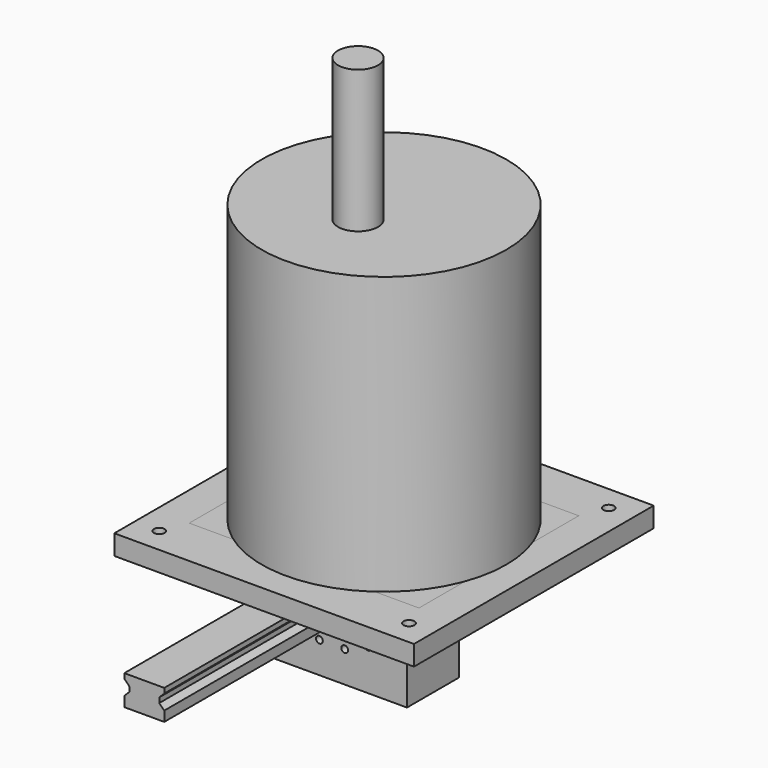
from build123d import *

# Parameters (mm, degrees)
F1_DEPTH  = 65
F3_DEPTH  = 65.001
F4_D      = 6.8
F4_DEPTH  = 13.75
F4_TIP    = 2.0429261047
F5_R      = 20
F6_DEPTH  = 10
F7_DEPTH  = 60.1742431504
F8_R      = 20
F9_DEPTH  = 325
F11_D     = 6.8
F11_DEPTH = 13.75
F11_TIP   = 2.0429261047
F12_R     = 20
F13_DEPTH = 54.2055053823
F14_DEPTH = 10
F15_R     = 20
F16_DEPTH = 54.2055053823
F17_DEPTH = 10
F18_R     = 17.5
F19_DEPTH = 40
F21_DEPTH = 40
F22_R     = 15
F23_DEPTH = 5
F24_R     = 2
F25_DEPTH = 60
F26_W     = 300
F26_H     = 300
F27_DEPTH = 20
F29_D     = 10.8
F30_W     = 300
F30_H     = 300
F31_DEPTH = 20
F33_D     = 10.8
F35_DEPTH = 300
F36_DEPTH = 75
F37_R     = 6
F38_DEPTH = 100
F39_W     = 230
F39_H     = 200
F40_DEPTH = 20
F41_R     = 122.5
F42_DEPTH = 297.5


with BuildPart() as f1:
    # F0 (on Front) → F1 (new body)
    with BuildSketch(Plane.XZ):
        Polygon((-75, 75), (-75, -95), (75, -95), (75, 75), (35, 105), (-35, 105), align=None)
    extrude(amount=F1_DEPTH)

    # F2 (on face) → F3 (cut, through all)
    with BuildSketch(Plane(origin=(0, 0, 0), x_dir=(-1, 0, 0), z_dir=(0, 1, 0))):
        with BuildLine():
            Line((-35.7071421427, -35), (35.7071421427, -35))
            ThreePointArc((35.7071421427, -35), (0, 50), (-35.7071421427, -35))
        make_face()
    extrude(amount=-F3_DEPTH, mode=Mode.SUBTRACT)

    # F4
    with Locations(Plane(origin=(0, 0, 0), x_dir=(-1, 0, 0), z_dir=(0, 1, 0))):
        with Locations((12.680870931, 63.7510432262), (36.1120651463, 54.0455247997), (54.0455247997, 36.1120651463), (63.7510432262, 12.680870931), (63.7510432262, -12.680870931), (54.0455247997, -36.1120651463), (36.1120651463, -54.0455247997), (12.680870931, -63.7510432262), (-12.680870931, -63.7510432262), (-36.1120651463, -54.0455247997), (-54.0455247997, -36.1120651463), (-63.7510432262, -12.680870931), (-63.7510432262, 12.680870931), (-54.0455247997, 36.1120651463), (-36.1120651463, 54.0455247997), (-12.680870931, 63.7510432262)):
            Hole(F4_D / 2, depth=F4_DEPTH)
            with Locations((0, 0, -(F4_DEPTH + F4_TIP / 2))):  # 118° drill point
                Cone(0, F4_D / 2, F4_TIP, mode=Mode.SUBTRACT)

    # F5 (on face) → F6 (join)
    with BuildSketch(Plane.XY.offset(105)):
        with BuildLine():
            ThreePointArc((8.49e-08, -65), (22.9809704186, -55.4809703586), (32.5, -32.5))
            ThreePointArc((32.5, -32.5), (22.9809704371, -9.51902966), (1.373e-07, 0))
            ThreePointArc((1.373e-07, 0), (-32.5, -32.4999999738), (8.49e-08, -65))
        make_face()
        with Locations((0, -32.5)):
            Circle(F5_R, mode=Mode.SUBTRACT)
        with Locations((0, -32.5)):
            Circle(F5_R)
    extrude(amount=F6_DEPTH)

    # F5 (on face) → F7 (cut, up to face)
    with BuildSketch(Plane.XY.offset(105)):
        with Locations((0, -32.5)):
            Circle(F5_R)
    extrude(amount=-F7_DEPTH, mode=Mode.SUBTRACT)

    # F8 (on face) → F9 (join)
    with BuildSketch(Plane.XY.offset(115)):
        with Locations((0, -32.5)):
            Circle(F8_R)
    extrude(amount=F9_DEPTH)

    # F11
    with Locations(Plane.XZ.offset(65)):
        with Locations((12.680870931, 63.7510432262), (36.1120651463, 54.0455247997), (54.0455247997, 36.1120651463), (63.7510432262, 12.680870931), (63.7510432262, -12.680870931), (54.0455247997, -36.1120651463), (36.1120651463, -54.0455247997), (12.680870931, -63.7510432262), (-12.680870931, -63.7510432262), (-36.1120651463, -54.0455247997), (-54.0455247997, -36.1120651463), (-63.7510432262, -12.680870931), (-63.7510432262, 12.680870931), (-54.0455247997, 36.1120651463), (-36.1120651463, 54.0455247997), (-12.680870931, 63.7510432262)):
            Hole(F11_D / 2, depth=F11_DEPTH)
            with Locations((0, 0, -(F11_DEPTH + F11_TIP / 2))):  # 118° drill point
                Cone(0, F11_D / 2, F11_TIP, mode=Mode.SUBTRACT)

    # F12 (on face) → F13 (cut, up to face)
    with BuildSketch(Plane(origin=(-75, 0, 0), x_dir=(0, -1, 0), z_dir=(-1, 0, 0))):
        with Locations((32.5, 25)):
            Circle(F12_R)
    extrude(amount=-F13_DEPTH, mode=Mode.SUBTRACT)

    # F12 (on face) → F14 (join)
    with BuildSketch(Plane(origin=(-75, 0, 0), x_dir=(0, -1, 0), z_dir=(-1, 0, 0))):
        with BuildLine():
            ThreePointArc((0, 24.9999998741), (32.500000063, -7.5), (65, 25))
            ThreePointArc((65, 25), (32.499999937, 57.5), (0, 24.9999998741))
        make_face()
        with Locations((32.5, 25)):
            Circle(F12_R, mode=Mode.SUBTRACT)
    extrude(amount=F14_DEPTH)

    # F15 (on face) → F16 (cut, up to face)
    with BuildSketch(Plane.YZ.offset(75)):
        with Locations((-32.5, 25)):
            Circle(F15_R)
    extrude(amount=-F16_DEPTH, mode=Mode.SUBTRACT)

    # F15 (on face) → F17 (join)
    with BuildSketch(Plane.YZ.offset(75)):
        with BuildLine():
            ThreePointArc((-65, 25), (-32.5, -7.5), (0, 25))
            ThreePointArc((0, 25), (-32.5, 57.5), (-65, 25))
        make_face()
        with Locations((-32.5, 25)):
            Circle(F15_R, mode=Mode.SUBTRACT)
    extrude(amount=F17_DEPTH)

    # F18 (on face) → F19 (join)
    with BuildSketch(Plane.XY.offset(-35)):
        with Locations((0, -32.5)):
            Circle(F18_R)
    extrude(amount=F19_DEPTH)

    # F20 (on face) → F21 (join)
    with BuildSketch(Plane.XY.offset(5)):
        with BuildLine():
            ThreePointArc((10.4796817609, -46.5152156669), (12.3743686708, -44.8743686708), (14.0152156669, -42.9796817609))
            Line((14.0152156669, -42.9796817609), (-10.4796817609, -18.4847843331))
            ThreePointArc((-10.4796817609, -18.4847843331), (-12.3743686708, -20.1256313292), (-14.0152156669, -22.0203182391))
            Line((-14.0152156669, -22.0203182391), (10.4796817609, -46.5152156669))
        make_face()
    extrude(amount=F21_DEPTH)

    # F22 (on face) → F23 (cut, through all)
    with BuildSketch(Plane(origin=(-14.482233047, -14.482233047, 0), x_dir=(-0.7071067812, 0.7071067812, 0), z_dir=(0.7071067812, 0.7071067812, 0))):
        with Locations((-22.9809703886, 25)):
            Circle(F22_R)
    extrude(amount=-F23_DEPTH, mode=Mode.SUBTRACT)

    # F24 (on face) → F25 (join, through all)
    with BuildSketch(Plane.XY.offset(45)):
        with Locations((0, -32.5)):
            Circle(F24_R)
    extrude(amount=F25_DEPTH)


with BuildPart() as f27:
    # F26 (on Top) → F27 (new body)
    with BuildSketch(Plane.XY):
        Rectangle(F26_W, F26_H)
    extrude(amount=F27_DEPTH)

    # F29 (through all)
    with Locations(Plane.XY.offset(20)):
        with Locations((125, -125), (125, 125), (-125, 125), (-125, -125), (0, 0)):
            Hole(F29_D / 2)


with BuildPart() as f31:
    # F30 (on Top) → F31 (new body)
    with BuildSketch(Plane.XY):
        Rectangle(F30_W, F30_H)
    extrude(amount=F31_DEPTH)

    # F33 (through all)
    with Locations(Plane.XY.offset(20)):
        with Locations((0, 0), (-125, 125), (-125, -125), (125, -125), (125, 125)):
            Hole(F33_D / 2)


with BuildPart() as f35:
    # F34 (on Front) → F35 (new body)
    with BuildSketch(Plane.XZ):
        Polygon((-20, -30), (0, -30), (20, -30), (20, -25), (20, -20), (16, -16), (15, -15), (15, -10), (16, -9), (20, -5), (20, 0), (0, 0), (-20, 0), (-20, -5), (-16, -9), (-15, -10), (-15, -15), (-16, -16), (-20, -20), (-20, -25), align=None)
    extrude(amount=F35_DEPTH)


with BuildPart() as f36:
    # F34 (on Front) → F36 (new body)
    with BuildSketch(Plane.XZ):
        Polygon((-30, -25), (-20, -25), (-20, -20), (-16, -16), (-16, -9), (-20, -5), (-20, 0), (0, 0), (20, 0), (20, -5), (16, -9), (16, -16), (20, -20), (20, -25), (30, -25), (40, -5), (40, 10), (0, 10), (-40, 10), (-40, -5), align=None)
    extrude(amount=F36_DEPTH)


with BuildPart() as f38:
    # F37 (on Top) → F38 (new body)
    with BuildSketch(Plane.XY):
        Circle(F37_R)
    extrude(amount=F38_DEPTH)


with BuildPart() as f40:
    # F39 (on Top) → F40 (new body)
    with BuildSketch(Plane.XY):
        Rectangle(F39_W, F39_H)
    extrude(amount=F40_DEPTH)


with BuildPart() as f42:
    # F41 (on Top) → F42 (new body)
    with BuildSketch(Plane.XY):
        Circle(F41_R)
    extrude(amount=F42_DEPTH)


solid = Compound([f1.part, f27.part, f31.part, f35.part, f36.part, f38.part, f40.part, f42.part])
